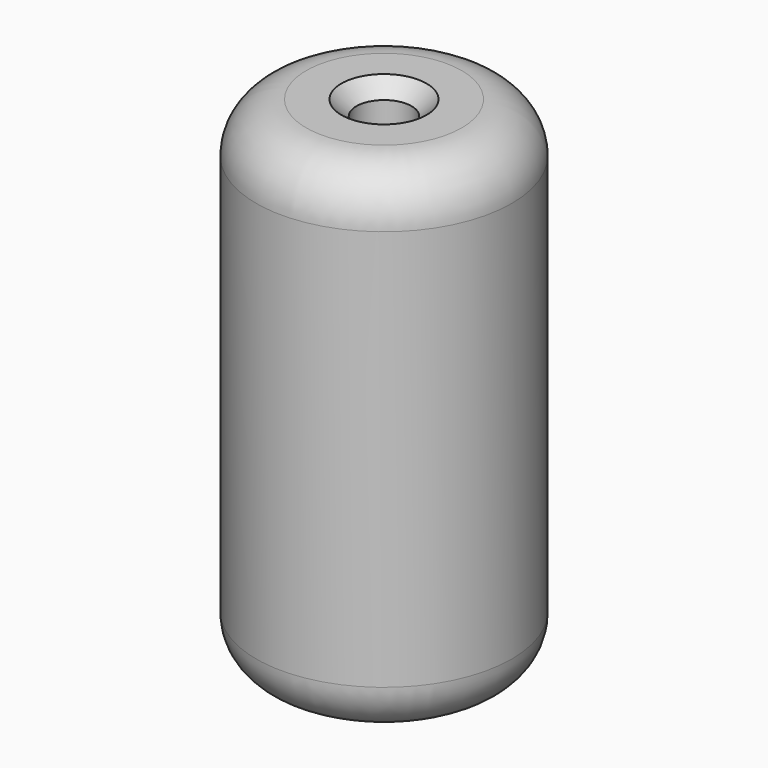
from build123d import *

# Parameters (mm, degrees)
F0_R     = 5.1
F0_R_2   = 1.1
F1_DEPTH = 20
F2_R     = 2
F3_SIZE  = 0.6


with BuildPart() as f1:
    # F0 (on Top) → F1 (new body)
    with BuildSketch(Plane.XY):
        Circle(F0_R)
        Circle(F0_R_2, mode=Mode.SUBTRACT)
    extrude(amount=F1_DEPTH)

    # F2
    f2_edges = [f1.edges().sort_by_distance(p)[0] for p in [
        (-5.1, 0, 20),
        (-5.1, 0, 0),
    ]]
    fillet(f2_edges, radius=F2_R)

    # F3
    f3_edges = [f1.edges().sort_by_distance(p)[0] for p in [
        (-1.1, 0, 20),
        (-1.1, 0, 0),
    ]]
    chamfer(f3_edges, length=F3_SIZE)


solid = f1.part
